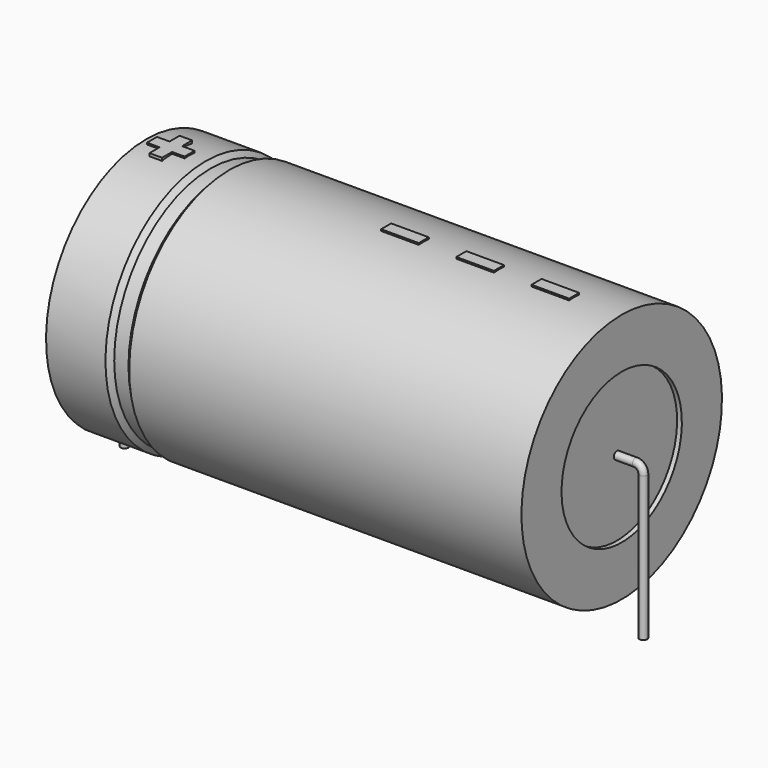
from build123d import *

# Parameters (mm, degrees)
SKETCH_R    = 0.45
SKETCH004_W = 4.35
SKETCH004_H = 1.45
PAD_DEPTH   = 14.645


with BuildPart() as sweep_body:
    # Sweep: sweep along a path in Sketch001
    with BuildLine(Plane.XZ) as sweep_path:
        Line((0, -3), (0, 13.7))
        ThreePointArc((0, 13.7), (0.263601, 14.336393), (0.899993, 14.6))
        Line((0.899993, 14.6), (59.1, 14.6))
        ThreePointArc((59.1, 14.6), (59.736396, 14.336396), (60, 13.7))
        Line((60, 13.7), (60, -3))
    # Sketch → Sweep (sweep)
    with BuildSketch(Plane.XY.offset(-2)):
        Circle(SKETCH_R)
    sweep(path=sweep_path.line)


with BuildPart() as revolution:
    # Sketch002 → Revolution (revolve)
    with BuildSketch(Plane.XZ):
        Polygon((2.5, 29.1), (2.5, 23.3), (57.5, 23.3), (57.5, 29.1), (12.125, 29.1), (11.575, 28.52), (9.925, 28.52), (9.375, 29.1), align=None)
    revolve(axis=Axis((6.97588, 0, 14.6), (1, 0, 0)))


with BuildPart() as revolution001:
    # Sketch003 → Revolution001 (revolve)
    with BuildSketch(Plane.XZ):
        Polygon((3.05, 28.52), (5.8, 28.52), (5.8, 16.05), (54.2, 16.05), (54.2, 28.52), (56.95, 28.52), (56.95, 14.6), (3.05, 14.6), align=None)
    revolve(axis=Axis((6.97588, 0, 14.6), (1, 0, 0)))


with BuildPart() as pad:
    # Sketch004 → Pad (new body)
    with BuildSketch(Plane.XY.offset(14.6)):
        with Locations((49.825, 0)):
            Rectangle(SKETCH004_W, SKETCH004_H)
        with Locations((41.125, 0)):
            Rectangle(SKETCH004_W, SKETCH004_H)
        with Locations((32.425, 0)):
            Rectangle(SKETCH004_W, SKETCH004_H)
        Polygon((4.61, 0.725), (3.16, 0.725), (3.16, -0.725), (4.61, -0.725), (4.61, -2.175), (6.06, -2.175), (6.06, -0.725), (7.51, -0.725), (7.51, 0.725), (6.06, 0.725), (6.06, 2.175), (4.61, 2.175), align=None)
    extrude(amount=PAD_DEPTH)


solid = Compound([sweep_body.part, revolution.part, revolution001.part, pad.part])
